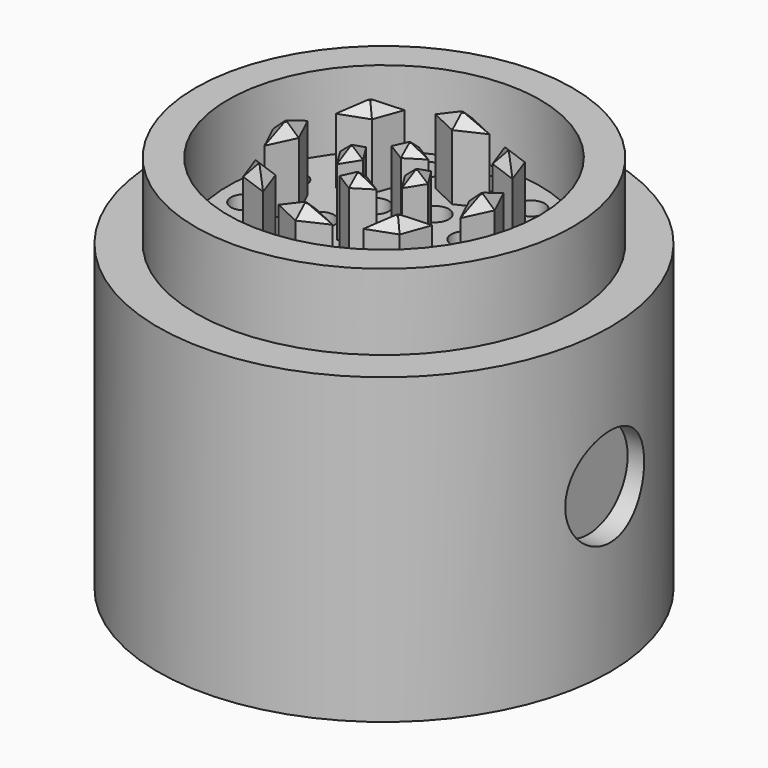
from build123d import *

# Parameters (mm, degrees)
F0_R      = 37.8550096291
F0_R_2    = 31.5515858066
F0_R_3    = 26.130133247
F0_R_4    = 18.3237488537
F0_R_5    = 14.259033604
F0_R_6    = 7.4916685754
F0_R_7    = 3.7166249412
F1_DEPTH  = 63.5
F2_DEPTH  = 12.7
F4_R      = 23.1074511848
F5_DEPTH  = 12.7
F6_DEPTH  = 15.24
F7_SIZE   = 1.778
F7_2_SIZE = 1.778
F7_3_SIZE = 1.778
F7_4_SIZE = 1.778
F7_5_SIZE = 1.778
F7_6_SIZE = 1.778
F7_7_SIZE = 1.778
F7_8_SIZE = 1.778
F8_SIZE   = 1.524
F8_2_SIZE = 1.524
F8_3_SIZE = 1.524
F8_4_SIZE = 1.524
F9_R      = 31.5050096291
F10_DEPTH = 42.646214366
F11_R     = 2.273137557
F11_R_2   = 2.3242040228
F12_DEPTH = 25.4
F14_R     = 8.255
F15_DEPTH = 19.4820109755
F17_R     = 8.255
F18_DEPTH = 25.4


with BuildPart() as f1:
    # F0 (on Top) → F1 (new body)
    with BuildSketch(Plane.XY):
        Circle(F0_R)
        Circle(F0_R_2, mode=Mode.SUBTRACT)
        Circle(F0_R_2)
        Circle(F0_R_3, mode=Mode.SUBTRACT)
        Circle(F0_R_3)
        Circle(F0_R_4, mode=Mode.SUBTRACT)
        Circle(F0_R_4)
        Circle(F0_R_5, mode=Mode.SUBTRACT)
        Circle(F0_R_5)
        Circle(F0_R_6, mode=Mode.SUBTRACT)
        Circle(F0_R_6)
        Circle(F0_R_7, mode=Mode.SUBTRACT)
        Circle(F0_R_7)
    extrude(amount=-F1_DEPTH)

    # F0 (on Top) → F2 (cut)
    with BuildSketch(Plane.XY):
        Circle(F0_R)
        Circle(F0_R_2, mode=Mode.SUBTRACT)
        Circle(F0_R_3)
        Circle(F0_R_4, mode=Mode.SUBTRACT)
        Circle(F0_R_5)
        Circle(F0_R_6, mode=Mode.SUBTRACT)
        Circle(F0_R_7)
    extrude(amount=-F2_DEPTH, mode=Mode.SUBTRACT)

    # F4 (on Top) → F5 (cut)
    with BuildSketch(Plane.XY):
        Circle(F4_R)
    extrude(amount=-F5_DEPTH, mode=Mode.SUBTRACT)

    # F9 (on face) → F10 (cut)
    with BuildSketch(Plane(origin=(0, 0, -63.5), x_dir=(1, 0, 0), z_dir=(0, 0, -1))):
        Circle(F9_R)
    extrude(amount=-F10_DEPTH, mode=Mode.SUBTRACT)

    # F11 (on face) → F12 (cut)
    with BuildSketch(Plane.XY.offset(-12.7)):
        with Locations((0, 21.6524600983)):
            Circle(F11_R)
        with Locations((-8.8068489347, 19.7805065696)):
            Circle(F11_R)
        with Locations((-16.0909136809, 14.4883237547)):
            Circle(F11_R)
        with Locations((-20.5927132703, 6.6909781404)):
            Circle(F11_R)
        with Locations((-21.5338456563, -2.26329838)):
            Circle(F11_R)
        with Locations((-18.7515804995, -10.8262300491)):
            Circle(F11_R)
        with Locations((-12.7269967216, -17.5172081895)):
            Circle(F11_R)
        with Locations((-4.5017995894, -21.1793018951)):
            Circle(F11_R)
        with Locations((4.5017995894, -21.1793018951)):
            Circle(F11_R)
        with Locations((12.7269967216, -17.5172081895)):
            Circle(F11_R)
        with Locations((18.7515804995, -10.8262300491)):
            Circle(F11_R)
        with Locations((21.5338456563, -2.26329838)):
            Circle(F11_R)
        with Locations((20.5927132703, 6.6909781404)):
            Circle(F11_R)
        with Locations((16.0909136809, 14.4883237547)):
            Circle(F11_R)
        with Locations((8.8068489347, 19.7805065696)):
            Circle(F11_R)
        with Locations((0, 10.6632132083)):
            Circle(F11_R_2)
        with Locations((-7.5400303688, 7.5400303688)):
            Circle(F11_R_2)
        with Locations((-10.6632132083, 0)):
            Circle(F11_R_2)
        with Locations((-7.5400303688, -7.5400303688)):
            Circle(F11_R_2)
        with Locations((0, -10.6632132083)):
            Circle(F11_R_2)
        with Locations((7.5400303688, -7.5400303688)):
            Circle(F11_R_2)
        with Locations((10.6632132083, 0)):
            Circle(F11_R_2)
        with Locations((7.5400303688, 7.5400303688)):
            Circle(F11_R_2)
    extrude(amount=-F12_DEPTH, mode=Mode.SUBTRACT)

    # F14 (on offset) → F15 (cut)
    with BuildSketch(Plane.YZ.offset(53.6610130221)):
        with Locations((0, -36.195)):
            Circle(F14_R)
    extrude(amount=-F15_DEPTH, mode=Mode.SUBTRACT)

    # F17 (on offset) → F18 (cut)
    with BuildSketch(Plane.YZ.offset(-58.1797920167)):
        with Locations((0, -36.195)):
            Circle(F17_R)
    extrude(amount=F18_DEPTH, mode=Mode.SUBTRACT)


with BuildPart() as f6:
    # F3 (on Top) → F6 (new body)
    with BuildSketch(Plane.XY):
        Polygon((-3.0742026865, 5.4332721047), (0, 3.5120844841), (0, 7.3544597253), align=None)
        Polygon((0, 7.3544597253), (0, 3.5120844841), (3.0742026865, 5.4332721047), align=None)
    extrude(amount=-F6_DEPTH)

    # F8
    f8_edges = [f6.edges().sort_by_distance(p)[0] for p in [
        (-1.537101, 6.393866, 0),
        (-1.537101, 4.472678, 0),
        (1.537101, 4.472678, 0),
        (1.537101, 6.393866, 0),
    ]]
    chamfer(f8_edges, length=F8_SIZE)


with BuildPart() as f6b:
    # F3 (on Top) → F6, piece 2 (new body)
    with BuildSketch(Plane.XY):
        Polygon((-5.4332721047, 3.0742026865), (-7.3544597253, 0), (-5.4332721047, -3.0742026865), (-3.5120844841, 0), align=None)
    extrude(amount=-F6_DEPTH)

    # F8#4
    f8_4_edges = [f6b.edges().sort_by_distance(p)[0] for p in [
        (-4.472678, -1.537101, 0),
        (-6.393866, -1.537101, 0),
        (-6.393866, 1.537101, 0),
        (-4.472678, 1.537101, 0),
    ]]
    chamfer(f8_4_edges, length=F8_4_SIZE)


with BuildPart() as f6c:
    # F3 (on Top) → F6, piece 3 (new body)
    with BuildSketch(Plane.XY):
        Polygon((-3.0742026865, -5.4332721047), (0, -7.3544597253), (3.0742026865, -5.4332721047), (0, -3.5120844841), align=None)
    extrude(amount=-F6_DEPTH)

    # F8#3
    f8_3_edges = [f6c.edges().sort_by_distance(p)[0] for p in [
        (1.537101, -6.393866, 0),
        (1.537101, -4.472678, 0),
        (-1.537101, -4.472678, 0),
        (-1.537101, -6.393866, 0),
    ]]
    chamfer(f8_3_edges, length=F8_3_SIZE)


with BuildPart() as f6d:
    # F3 (on Top) → F6, piece 4 (new body)
    with BuildSketch(Plane.XY):
        Polygon((5.4332721047, -3.0742026865), (7.3544597253, 0), (5.4332721047, 3.0742026865), (3.5120844841, 0), align=None)
    extrude(amount=-F6_DEPTH)

    # F8#2
    f8_2_edges = [f6d.edges().sort_by_distance(p)[0] for p in [
        (4.472678, 1.537101, 0),
        (6.393866, 1.537101, 0),
        (6.393866, -1.537101, 0),
        (4.472678, -1.537101, 0),
    ]]
    chamfer(f8_2_edges, length=F8_2_SIZE)


with BuildPart() as f6e:
    # F3 (on Top) → F6, piece 5 (new body)
    with BuildSketch(Plane.XY):
        Polygon((-4.5206397772, 16.3981886581), (0, 14.2706036568), (0, 18.5257736593), align=None)
        Polygon((0, 18.5257736593), (0, 14.2706036568), (4.5206397772, 16.3981886581), align=None)
    extrude(amount=-F6_DEPTH)

    # F7#8
    f7_8_edges = [f6e.edges().sort_by_distance(p)[0] for p in [
        (2.26032, 15.334396, 0),
        (-2.26032, 15.334396, 0),
        (-2.26032, 17.461981, 0),
        (2.26032, 17.461981, 0),
    ]]
    chamfer(f7_8_edges, length=F7_8_SIZE)


with BuildPart() as f6f:
    # F3 (on Top) → F6, piece 6 (new body)
    with BuildSketch(Plane.XY):
        Polygon((-8.3986953575, 14.791845441), (-13.0997001813, 13.0997001813), (-14.791845441, 8.3986953575), (-10.0908406173, 10.0908406173), align=None)
    extrude(amount=-F6_DEPTH)

    # F7#5
    f7_5_edges = [f6f.edges().sort_by_distance(p)[0] for p in [
        (-12.441343, 9.244768, 0),
        (-9.244768, 12.441343, 0),
        (-10.749198, 13.945773, 0),
        (-13.945773, 10.749198, 0),
    ]]
    chamfer(f7_5_edges, length=F7_5_SIZE)


with BuildPart() as f6g:
    # F3 (on Top) → F6, piece 7 (new body)
    with BuildSketch(Plane.XY):
        Polygon((-16.3981886581, 4.5206397772), (-18.5257736593, 0), (-16.3981886581, -4.5206397772), (-14.2706036568, 0), align=None)
    extrude(amount=-F6_DEPTH)

    # F7
    f7_edges = [f6g.edges().sort_by_distance(p)[0] for p in [
        (-17.461981, -2.26032, 0),
        (-17.461981, 2.26032, 0),
        (-15.334396, 2.26032, 0),
        (-15.334396, -2.26032, 0),
    ]]
    chamfer(f7_edges, length=F7_SIZE)


with BuildPart() as f6h:
    # F3 (on Top) → F6, piece 8 (new body)
    with BuildSketch(Plane.XY):
        Polygon((-14.791845441, -8.3986953575), (-13.0997001813, -13.0997001813), (-8.3986953575, -14.791845441), (-10.0908406173, -10.0908406173), align=None)
    extrude(amount=-F6_DEPTH)

    # F7#2
    f7_2_edges = [f6h.edges().sort_by_distance(p)[0] for p in [
        (-13.945773, -10.749198, 0),
        (-9.244768, -12.441343, 0),
        (-12.441343, -9.244768, 0),
        (-10.749198, -13.945773, 0),
    ]]
    chamfer(f7_2_edges, length=F7_2_SIZE)


with BuildPart() as f6i:
    # F3 (on Top) → F6, piece 9 (new body)
    with BuildSketch(Plane.XY):
        Polygon((-4.5206397772, -16.3981886581), (0, -18.5257736593), (4.5206397772, -16.3981886581), (0, -14.2706036568), align=None)
    extrude(amount=-F6_DEPTH)

    # F7#3
    f7_3_edges = [f6i.edges().sort_by_distance(p)[0] for p in [
        (-2.26032, -15.334396, 0),
        (-2.26032, -17.461981, 0),
        (2.26032, -15.334396, 0),
        (2.26032, -17.461981, 0),
    ]]
    chamfer(f7_3_edges, length=F7_3_SIZE)


with BuildPart() as f6j:
    # F3 (on Top) → F6, piece 10 (new body)
    with BuildSketch(Plane.XY):
        Polygon((8.3986953575, -14.791845441), (13.0997001813, -13.0997001813), (14.791845441, -8.3986953575), (10.0908406173, -10.0908406173), align=None)
    extrude(amount=-F6_DEPTH)

    # F7#4
    f7_4_edges = [f6j.edges().sort_by_distance(p)[0] for p in [
        (10.749198, -13.945773, 0),
        (9.244768, -12.441343, 0),
        (12.441343, -9.244768, 0),
        (13.945773, -10.749198, 0),
    ]]
    chamfer(f7_4_edges, length=F7_4_SIZE)


with BuildPart() as f6k:
    # F3 (on Top) → F6, piece 11 (new body)
    with BuildSketch(Plane.XY):
        Polygon((16.3981886581, -4.5206397772), (18.5257736593, 0), (16.3981886581, 4.5206397772), (14.2706036568, 0), align=None)
    extrude(amount=-F6_DEPTH)

    # F7#6
    f7_6_edges = [f6k.edges().sort_by_distance(p)[0] for p in [
        (15.334396, 2.26032, 0),
        (15.334396, -2.26032, 0),
        (17.461981, -2.26032, 0),
        (17.461981, 2.26032, 0),
    ]]
    chamfer(f7_6_edges, length=F7_6_SIZE)


with BuildPart() as f6l:
    # F3 (on Top) → F6, piece 12 (new body)
    with BuildSketch(Plane.XY):
        Polygon((14.791845441, 8.3986953575), (13.0997001813, 13.0997001813), (8.3986953575, 14.791845441), (10.0908406173, 10.0908406173), align=None)
    extrude(amount=-F6_DEPTH)

    # F7#7
    f7_7_edges = [f6l.edges().sort_by_distance(p)[0] for p in [
        (13.945773, 10.749198, 0),
        (10.749198, 13.945773, 0),
        (9.244768, 12.441343, 0),
        (12.441343, 9.244768, 0),
    ]]
    chamfer(f7_7_edges, length=F7_7_SIZE)


solid = Compound([f1.part, f6.part, f6b.part, f6c.part, f6d.part, f6e.part, f6f.part, f6g.part, f6h.part, f6i.part, f6j.part, f6k.part, f6l.part])
